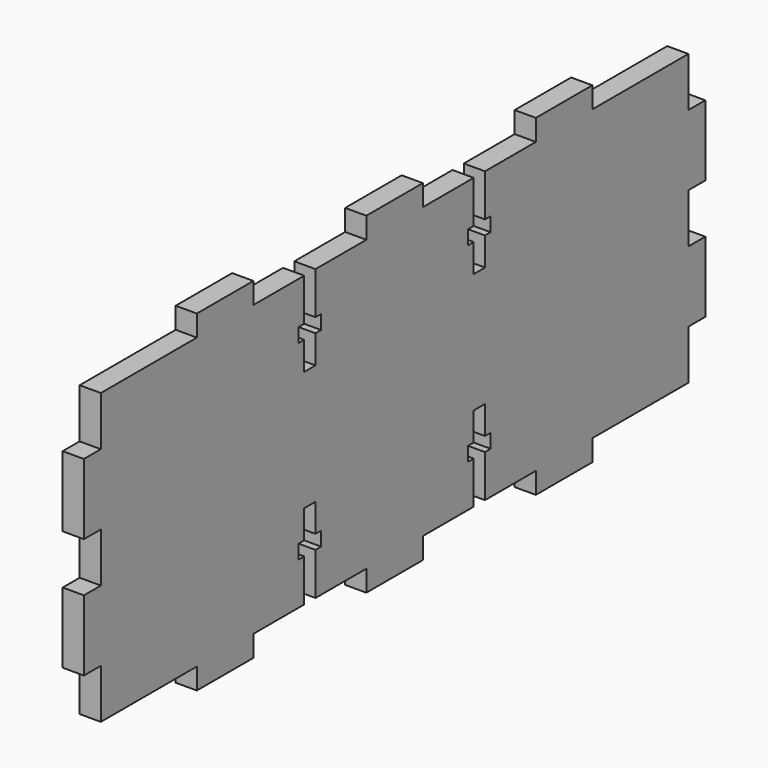
from build123d import *

# Parameters (mm, degrees)
F1_DEPTH = 3


with BuildPart() as f1:
    # F0 (on Right) → F1 (new body)
    with BuildSketch(Plane.YZ):
        Polygon((-17, 0), (0, 0), (0, 7), (3, 7), (3, 17), (0, 17), (0, 24), (3, 24), (3, 34), (0, 34), (0, 41), (-17, 41), (-17, 44), (-27, 44), (-27, 41), (-36, 41), (-36, 35), (-35, 35), (-35, 33), (-36, 33), (-36, 29), (-38, 29), (-38, 33), (-39, 33), (-39, 35), (-38, 35), (-38, 41), (-47, 41), (-47, 44), (-52, 44), (-57, 44), (-57, 41), (-66, 41), (-66, 35), (-65, 35), (-65, 33), (-66, 33), (-66, 29), (-68, 29), (-68, 33), (-69, 33), (-69, 35), (-68, 35), (-68, 41), (-77, 41), (-77, 44), (-87, 44), (-87, 41), (-104, 41), (-104, 34), (-107, 34), (-107, 24), (-104, 24), (-104, 17), (-107, 17), (-107, 7), (-104, 7), (-104, 0), (-87, 0), (-87, -3), (-77, -3), (-77, 0), (-68, 0), (-68, 6), (-69, 6), (-69, 8), (-68, 8), (-68, 12), (-66, 12), (-66, 8), (-65, 8), (-65, 6), (-66, 6), (-66, 0), (-57, 0), (-57, -3), (-52, -3), (-47, -3), (-47, 0), (-38, 0), (-38, 6), (-39, 6), (-39, 8), (-38, 8), (-38, 12), (-36, 12), (-36, 8), (-35, 8), (-35, 6), (-36, 6), (-36, 0), (-27, 0), (-27, -3), (-17, -3), align=None)
    extrude(amount=F1_DEPTH)


solid = f1.part
